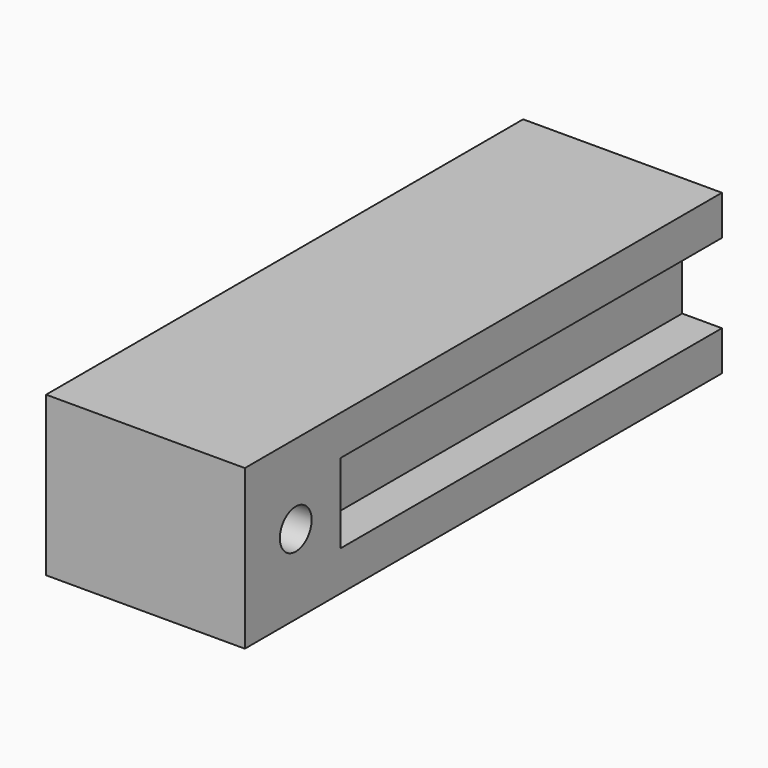
from build123d import *

# Parameters (mm, degrees)
F0_W     = 50
F0_H     = 40
F1_DEPTH = 150
F2_W     = 120
F2_H     = 20
F3_DEPTH = 10
F5_W     = 120
F5_H     = 20
F6_DEPTH = 10
F8_R     = 5
F9_DEPTH = 60


with BuildPart() as f1:
    # F0 (on Front) → F1 (new body)
    with BuildSketch(Plane.XZ):
        Rectangle(F0_W, F0_H)
    extrude(amount=F1_DEPTH)


with BuildPart() as f3:
    # F2 (on face) → F3 (new body)
    with BuildSketch(Plane.YZ.offset(25)):
        with Locations((-60, 0)):
            Rectangle(F2_W, F2_H)
    extrude(amount=-F3_DEPTH)


with BuildPart() as f1_1:
    add(f1.part)

    # F4: cut F3
    add(f3.part, mode=Mode.SUBTRACT)


with BuildPart() as f6:
    # F5 (on face) → F6 (new body)
    with BuildSketch(Plane(origin=(-25, 0, 0), x_dir=(0, -1, 0), z_dir=(-1, 0, 0))):
        with Locations((60, 0)):
            Rectangle(F5_W, F5_H)
    extrude(amount=-F6_DEPTH)


with BuildPart() as f1_2:
    add(f1_1.part)

    # F7: cut F6
    add(f6.part, mode=Mode.SUBTRACT)


with BuildPart() as f9:
    # F8 (on face) → F9 (new body)
    with BuildSketch(Plane(origin=(-25, 0, 0), x_dir=(0, -1, 0), z_dir=(-1, 0, 0))):
        with Locations((134, 0)):
            Circle(F8_R)
    extrude(amount=-F9_DEPTH)


with BuildPart() as f1_3:
    add(f1_2.part)

    # F10: cut F9
    add(f9.part, mode=Mode.SUBTRACT)


solid = f1_3.part
